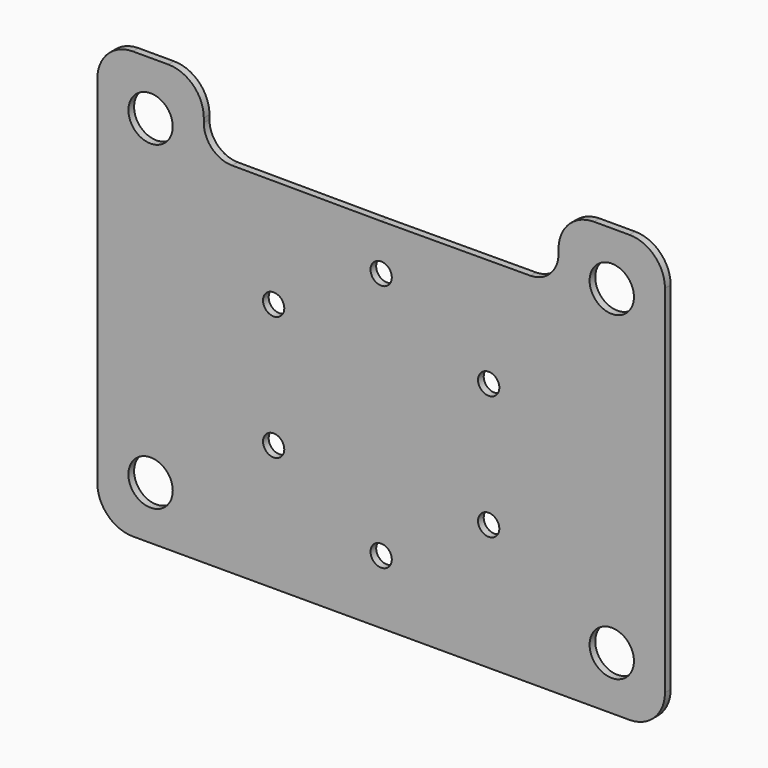
from build123d import *

# Parameters (mm, degrees)
F1_R     = 6.25
F1_R_2   = 3
F2_DEPTH = 2


with BuildPart() as f2:
    # F1 (on Front) → F2 (new body)
    with BuildSketch(Plane.XZ):
        with BuildLine():
            Line((-60, 67.371839), (-70, 67.371839))
            ThreePointArc((-70, 67.371839), (-77.071068, 64.442907), (-80, 57.371839))
            Line((-80, 57.371839), (-80, 0))
            Line((-80, 0), (-80, -43))
            ThreePointArc((-80, -43), (-77.071068, -50.071068), (-70, -53))
            Line((-70, -53), (0, -53))
            Line((0, -53), (70, -53))
            ThreePointArc((70, -53), (77.071068, -50.071068), (80, -43))
            Line((80, -43), (80, 0))
            Line((80, 0), (80, 57.371839))
            ThreePointArc((80, 57.371839), (77.071068, 64.442907), (70, 67.371839))
            Line((70, 67.371839), (60, 67.371839))
            ThreePointArc((60, 67.371839), (52.928932, 64.442907), (50, 57.371839))
            Line((50, 57.371839), (50, 56.150236))
            ThreePointArc((50, 56.150236), (47.666959, 50.503505), (42.028607, 48.150288))
            Line((42.028607, 48.150288), (0, 48))
            Line((0, 48), (-42.028607, 48.150288))
            ThreePointArc((-42.028607, 48.150288), (-47.666959, 50.503505), (-50, 56.150236))
            Line((-50, 56.150236), (-50, 57.371839))
            ThreePointArc((-50, 57.371839), (-52.928932, 64.442907), (-60, 67.371839))
        make_face()
        with Locations((-65, -38)):
            Circle(F1_R, mode=Mode.SUBTRACT)
        with Locations((-30.310889, -17.5)):
            Circle(F1_R_2, mode=Mode.SUBTRACT)
        with Locations((0, -35)):
            Circle(F1_R_2, mode=Mode.SUBTRACT)
        with Locations((65, -38)):
            Circle(F1_R, mode=Mode.SUBTRACT)
        with Locations((30.310889, -17.5)):
            Circle(F1_R_2, mode=Mode.SUBTRACT)
        with Locations((-30.310889, 17.5)):
            Circle(F1_R_2, mode=Mode.SUBTRACT)
        with Locations((-65, 52.371839)):
            Circle(F1_R, mode=Mode.SUBTRACT)
        with Locations((30.310889, 17.5)):
            Circle(F1_R_2, mode=Mode.SUBTRACT)
        with BuildLine():
            ThreePointArc((3, 35), (-2.12132, 32.87868), (0, 38))
            ThreePointArc((0, 38), (2.12132, 37.12132), (3, 35))
        make_face(mode=Mode.SUBTRACT)
        with Locations((65, 52.371839)):
            Circle(F1_R, mode=Mode.SUBTRACT)
    extrude(amount=-F2_DEPTH)


solid = f2.part
